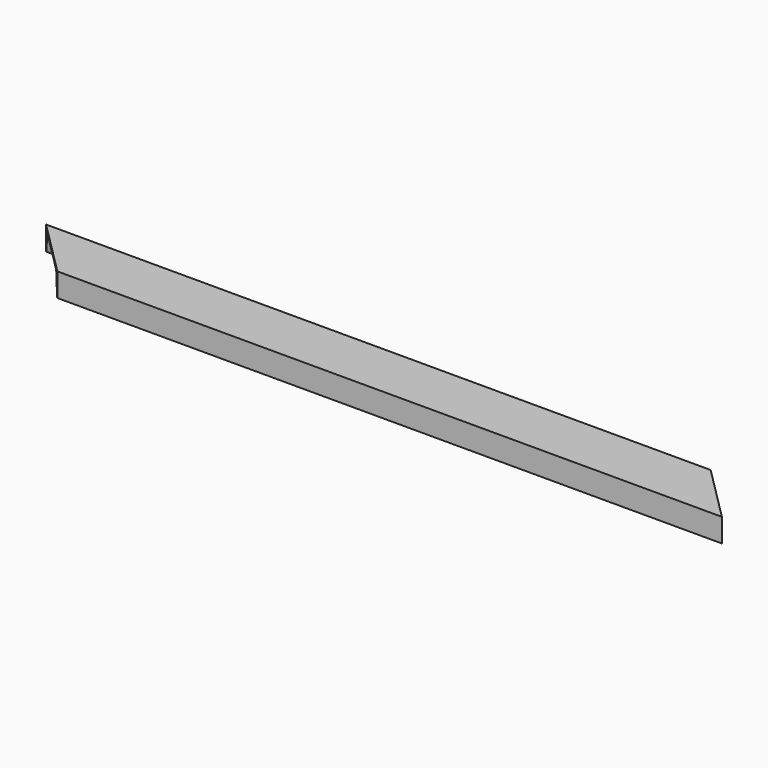
from build123d import *

# Parameters (mm, degrees)
F1_DEPTH = 1947.8625
F3_DEPTH = 63.4248


with BuildPart() as f1:
    # F0 (on Right) → F1 (new body)
    with BuildSketch(Plane.YZ):
        with BuildLine():
            Line((76.2, 0), (-76.2, 0))
            Line((-76.2, 0), (-76.2, -63.4238))
            ThreePointArc((-76.2, -63.4238), (-72.574321, -62.102069), (-70.649887, -58.757061))
            Line((-70.649887, -58.757061), (-63.124886, -15.566335))
            ThreePointArc((-63.124886, -15.566335), (-59.952782, -10.052651), (-53.976459, -7.874))
            Line((-53.976459, -7.874), (53.976459, -7.874))
            ThreePointArc((53.976459, -7.874), (59.952782, -10.052651), (63.124886, -15.566335))
            Line((63.124886, -15.566335), (70.649887, -58.757061))
            ThreePointArc((70.649887, -58.757061), (72.574321, -62.102069), (76.2, -63.4238))
            Line((76.2, -63.4238), (76.2, 0))
        make_face()
    extrude(amount=F1_DEPTH)

    # F2 (on face) → F3 (cut, through all)
    with BuildSketch(Plane.XY):
        Polygon((152.4, -76.2), (0, 76.2), (0, -76.2), align=None)
        Polygon((1795.4625, 76.2), (1947.8625, -76.2), (1947.8625, 76.2), align=None)
    extrude(amount=-F3_DEPTH, mode=Mode.SUBTRACT)


solid = f1.part
